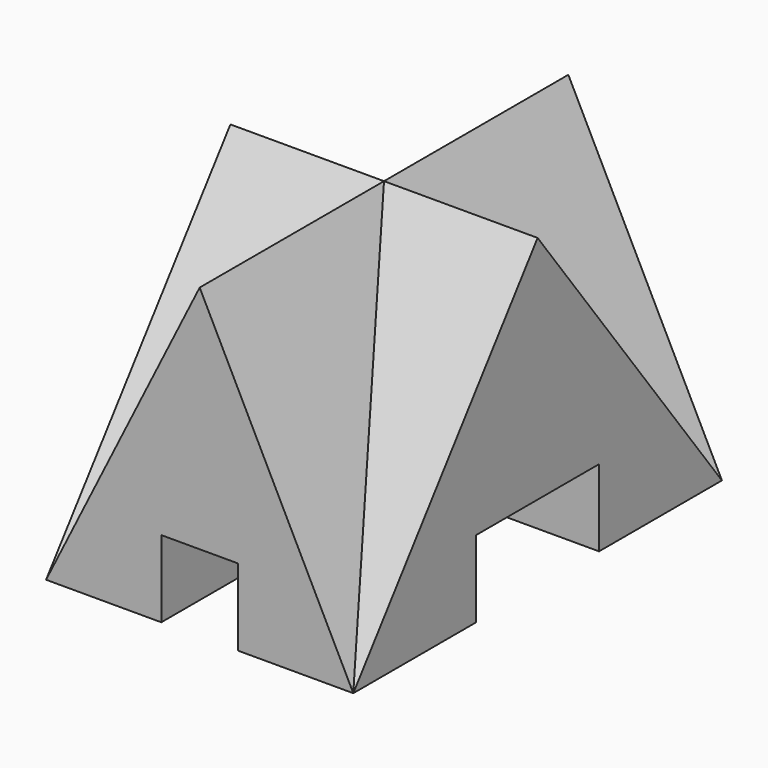
from build123d import *

# Parameters (mm, degrees)
F1_DEPTH = 30
F3_DEPTH = 20
F4_W     = 10
F4_H     = 10
F5_DEPTH = 30
F6_W     = 20
F6_H     = 10
F7_DEPTH = 40


with BuildPart() as f1:
    # F0 (on Front) → F1 (new body, symmetric)
    with BuildSketch(Plane.XZ):
        Polygon((20, 0), (0, 40), (-20, 0), align=None)
    extrude(amount=F1_DEPTH, both=True)

    # F2 (on Right) → F3 (join, symmetric)
    with BuildSketch(Plane.YZ):
        Polygon((0, 40), (-30, 0), (30, 0), align=None)
    extrude(amount=F3_DEPTH, both=True)

    # F4 (on Front) → F5 (cut, symmetric)
    with BuildSketch(Plane.XZ):
        with Locations((0, 5)):
            Rectangle(F4_W, F4_H)
    extrude(amount=F5_DEPTH, both=True, mode=Mode.SUBTRACT)

    # F6 (on face) → F7 (cut)
    with BuildSketch(Plane.YZ.offset(20)):
        with Locations((0, 5)):
            Rectangle(F6_W, F6_H)
    extrude(amount=-F7_DEPTH, mode=Mode.SUBTRACT)


solid = f1.part
